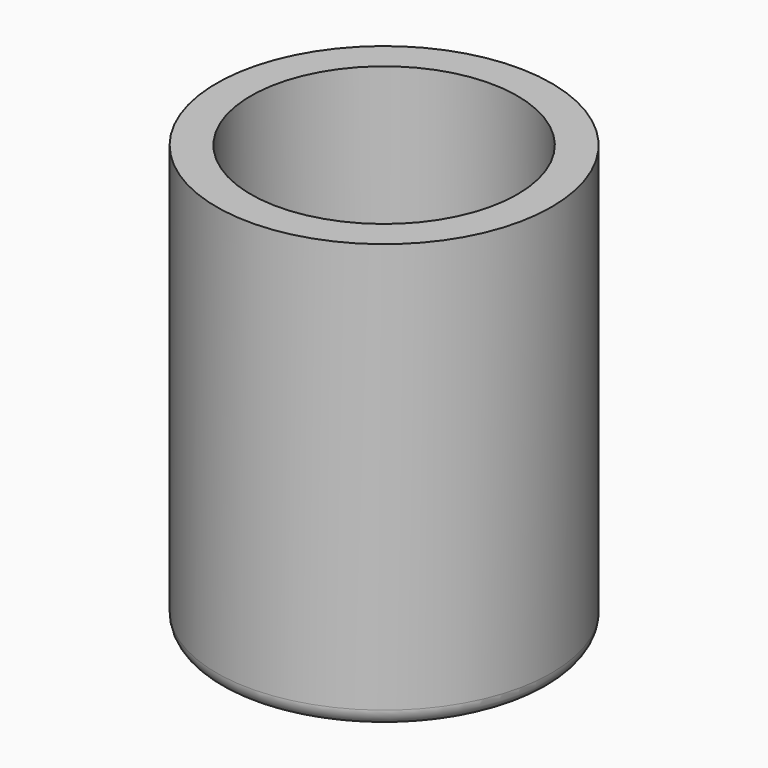
from build123d import *

# Parameters (mm, degrees)
F0_R     = 9.8
F0_R_2   = 7.8
F1_DEPTH = 25
F2_R     = 1


with BuildPart() as f1:
    # F0 (on Top) → F1 (new body)
    with BuildSketch(Plane.XY):
        Circle(F0_R)
        Circle(F0_R_2, mode=Mode.SUBTRACT)
    extrude(amount=-F1_DEPTH)

    # F2
    f2_edges = [f1.edges().sort_by_distance(p)[0] for p in [
        (-9.8, 0, -25),
    ]]
    fillet(f2_edges, radius=F2_R)


solid = f1.part
